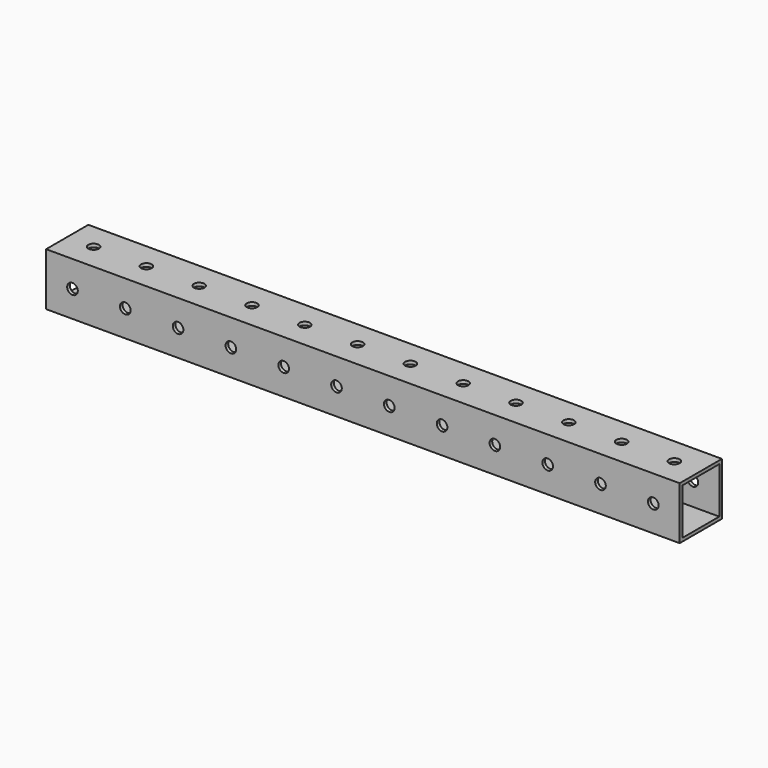
from build123d import *

# Parameters (mm, degrees)
F0_W     = 25.4
F0_H     = 25.4
F1_DEPTH = 304.8
F2_R     = 2.5527
F3_DEPTH = 25.4
F4_W     = 22.225
F4_H     = 22.225
F5_DEPTH = 304.8
F6_R     = 2.5527
F7_DEPTH = 25.4


with BuildPart() as f1:
    # F0 (on Right) → F1 (new body)
    with BuildSketch(Plane.YZ):
        Rectangle(F0_W, F0_H)
    extrude(amount=F1_DEPTH)

    # F2 (on face) → F3 (cut)
    with BuildSketch(Plane.XZ.offset(12.7)):
        with Locations((12.7, 0)):
            Circle(F2_R)
        with Locations((38.1, 0)):
            Circle(F2_R)
        with Locations((63.5, 0)):
            Circle(F2_R)
        with Locations((88.9, 0)):
            Circle(F2_R)
        with Locations((114.3, 0)):
            Circle(F2_R)
        with Locations((139.7, 0)):
            Circle(F2_R)
        with Locations((165.1, 0)):
            Circle(F2_R)
        with Locations((190.5, 0)):
            Circle(F2_R)
        with Locations((215.9, 0)):
            Circle(F2_R)
        with Locations((241.3, 0)):
            Circle(F2_R)
        with Locations((266.7, 0)):
            Circle(F2_R)
        with Locations((292.1, 0)):
            Circle(F2_R)
    extrude(amount=-F3_DEPTH, mode=Mode.SUBTRACT)

    # F4 (on face) → F5 (cut)
    with BuildSketch(Plane(origin=(0, 0, 0), x_dir=(0, -1, 0), z_dir=(-1, 0, 0))):
        Rectangle(F4_W, F4_H)
    extrude(amount=-F5_DEPTH, mode=Mode.SUBTRACT)

    # F6 (on face) → F7 (cut)
    with BuildSketch(Plane.XY.offset(12.7)):
        with Locations((12.7, 0)):
            Circle(F6_R)
        with Locations((38.1, 0)):
            Circle(F6_R)
        with Locations((63.5, 0)):
            Circle(F6_R)
        with Locations((88.9, 0)):
            Circle(F6_R)
        with Locations((114.3, 0)):
            Circle(F6_R)
        with Locations((139.7, 0)):
            Circle(F6_R)
        with Locations((165.1, 0)):
            Circle(F6_R)
        with Locations((190.5, 0)):
            Circle(F6_R)
        with Locations((215.9, 0)):
            Circle(F6_R)
        with Locations((241.3, 0)):
            Circle(F6_R)
        with Locations((266.7, 0)):
            Circle(F6_R)
        with Locations((292.1, 0)):
            Circle(F6_R)
    extrude(amount=-F7_DEPTH, mode=Mode.SUBTRACT)


solid = f1.part
